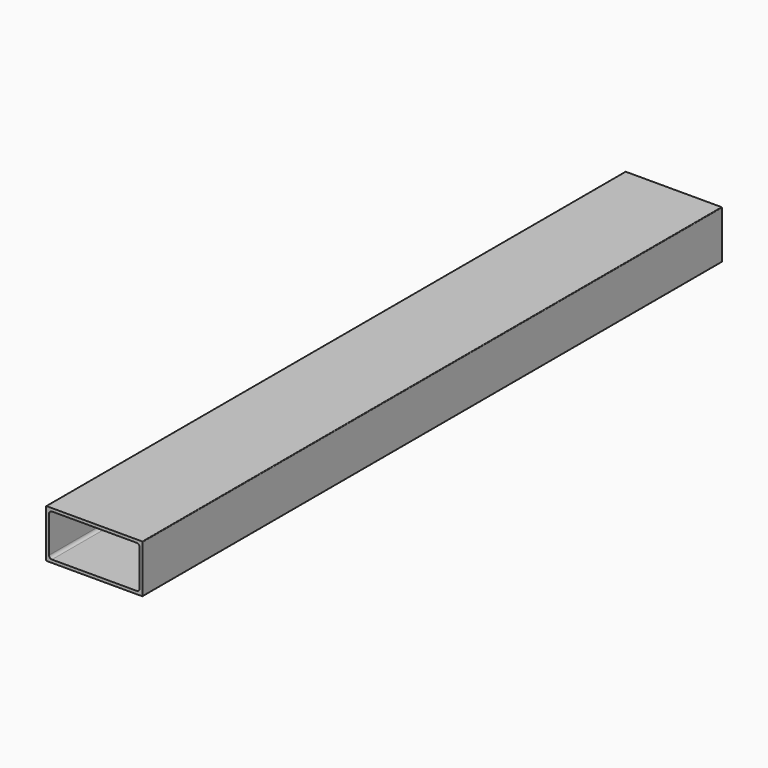
from build123d import *

# Parameters (mm, degrees)
F0_W     = 50.8
F0_H     = 25.4
F1_DEPTH = 381
F2_W     = 47.6504
F2_H     = 22.2504
F3_DEPTH = 381
F4_R     = 1.524
F5_R     = 0.254


with BuildPart() as f1:
    # F0 (on Front) → F1 (new body)
    with BuildSketch(Plane.XZ):
        Rectangle(F0_W, F0_H)
    extrude(amount=F1_DEPTH)

    # F2 (on face) → F3 (cut, through all)
    with BuildSketch(Plane.XZ.offset(381)):
        Rectangle(F2_W, F2_H)
    extrude(amount=-F3_DEPTH, mode=Mode.SUBTRACT)

    # F4
    f4_edges = [f1.edges().sort_by_distance(p)[0] for p in [
        (23.8252, -190.5, -11.1252),
        (23.8252, -190.5, 11.1252),
        (-23.8252, -190.5, -11.1252),
        (-23.8252, -190.5, 11.1252),
    ]]
    fillet(f4_edges, radius=F4_R)

    # F5
    f5_edges = [f1.edges().sort_by_distance(p)[0] for p in [
        (-25.4, -190.5, 12.7),
        (25.4, -190.5, 12.7),
        (25.4, -190.5, -12.7),
        (-25.4, -190.5, -12.7),
    ]]
    fillet(f5_edges, radius=F5_R)


solid = f1.part
